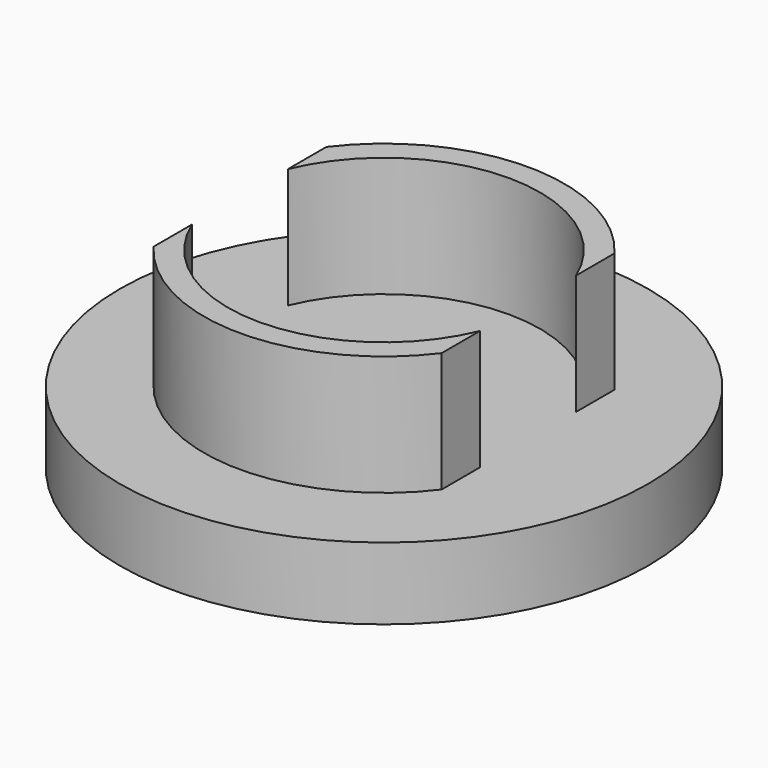
from build123d import *

# Parameters (mm, degrees)
F0_R     = 11
F1_DEPTH = 3
F3_DEPTH = 5


with BuildPart() as f1:
    # F0 (on Top) → F1 (new body)
    with BuildSketch(Plane.XY):
        Circle(F0_R)
    extrude(amount=F1_DEPTH)

    # F2 (on face) → F3 (join)
    with BuildSketch(Plane.XY.offset(3)):
        with BuildLine():
            Line((6, 2.5), (6, 4.5))
            ThreePointArc((6, 4.5), (0, 7.5), (-6, 4.5))
            Line((-6, 4.5), (-6, 2.5))
            ThreePointArc((-6, 2.5), (0, 6.5), (6, 2.5))
        make_face()
        with BuildLine():
            Line((6, -4.5), (6, -2.5))
            ThreePointArc((6, -2.5), (0, -6.5), (-6, -2.5))
            Line((-6, -2.5), (-6, -4.5))
            ThreePointArc((-6, -4.5), (0, -7.5), (6, -4.5))
        make_face()
    extrude(amount=F3_DEPTH)


solid = f1.part
